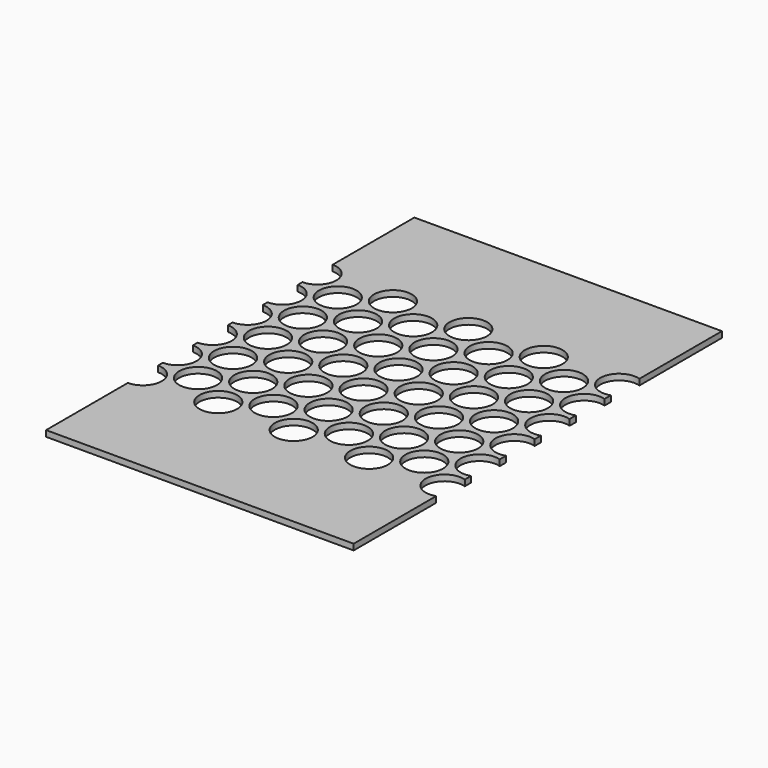
from build123d import *

# Parameters (mm, degrees)
SKETCH061_W     = 445
SKETCH061_H     = 232
PAD023_DEPTH    = 3
SKETCH062_R     = 9.5
POCKET038_DEPTH = 5
FILLET008_R     = 2
SKETCH063_R     = 7
POCKET039_DEPTH = 10.001
POCKET052_DEPTH = 5


with BuildPart() as part:
    # Sketch061 → Pad023 (new body)
    with BuildSketch(Plane.XY):
        Rectangle(SKETCH061_W, SKETCH061_H)
    extrude(amount=PAD023_DEPTH)

    # Sketch062 (on Face6 of Pad023) → Pocket038 (cut)
    with BuildSketch(Plane.XY.offset(3)):
        with Locations((-171, 55)):
            Circle(SKETCH062_R)
        with Locations((-171, 33)):
            Circle(SKETCH062_R)
        with Locations((-171, 11)):
            Circle(SKETCH062_R)
        with Locations((-171, -11)):
            Circle(SKETCH062_R)
        with Locations((-171, -33)):
            Circle(SKETCH062_R)
        with Locations((-171, -55)):
            Circle(SKETCH062_R)
        with Locations((-152, 44)):
            Circle(SKETCH062_R)
        with Locations((-152, 22)):
            Circle(SKETCH062_R)
        with Locations((-152, 0)):
            Circle(SKETCH062_R)
        with Locations((-152, -22)):
            Circle(SKETCH062_R)
        with Locations((-152, -44)):
            Circle(SKETCH062_R)
        with Locations((-133, 55)):
            Circle(SKETCH062_R)
        with Locations((-133, 33)):
            Circle(SKETCH062_R)
        with Locations((-133, 11)):
            Circle(SKETCH062_R)
        with Locations((-133, -11)):
            Circle(SKETCH062_R)
        with Locations((-133, -33)):
            Circle(SKETCH062_R)
        with Locations((-133, -55)):
            Circle(SKETCH062_R)
        with Locations((-114, 44)):
            Circle(SKETCH062_R)
        with Locations((-114, 22)):
            Circle(SKETCH062_R)
        with Locations((-114, 0)):
            Circle(SKETCH062_R)
        with Locations((-114, -22)):
            Circle(SKETCH062_R)
        with Locations((-114, -44)):
            Circle(SKETCH062_R)
        with Locations((-95, 55)):
            Circle(SKETCH062_R)
        with Locations((-95, 33)):
            Circle(SKETCH062_R)
        with Locations((-95, 11)):
            Circle(SKETCH062_R)
        with Locations((-95, -11)):
            Circle(SKETCH062_R)
        with Locations((-95, -33)):
            Circle(SKETCH062_R)
        with Locations((-95, -55)):
            Circle(SKETCH062_R)
        with Locations((-76, -44)):
            Circle(SKETCH062_R)
        with Locations((-76, -22)):
            Circle(SKETCH062_R)
        with Locations((-76, 0)):
            Circle(SKETCH062_R)
        with Locations((-76, 22)):
            Circle(SKETCH062_R)
        with Locations((-76, 44)):
            Circle(SKETCH062_R)
        with Locations((-57, 55)):
            Circle(SKETCH062_R)
        with Locations((-57, 33)):
            Circle(SKETCH062_R)
        with Locations((-57, 11)):
            Circle(SKETCH062_R)
        with Locations((-57, -11)):
            Circle(SKETCH062_R)
        with Locations((-57, -33)):
            Circle(SKETCH062_R)
        with Locations((-38, 44)):
            Circle(SKETCH062_R)
        with Locations((-38, 22)):
            Circle(SKETCH062_R)
        with Locations((-38, 0)):
            Circle(SKETCH062_R)
        with Locations((-38, -22)):
            Circle(SKETCH062_R)
        with Locations((-38, -44)):
            Circle(SKETCH062_R)
        with Locations((-57, -55)):
            Circle(SKETCH062_R)
        with Locations((-19, 55)):
            Circle(SKETCH062_R)
        with Locations((-19, 33)):
            Circle(SKETCH062_R)
        with Locations((-19, 11)):
            Circle(SKETCH062_R)
        with Locations((-19, -11)):
            Circle(SKETCH062_R)
        with Locations((-19, -33)):
            Circle(SKETCH062_R)
        with Locations((-19, -55)):
            Circle(SKETCH062_R)
        with Locations((0, -44)):
            Circle(SKETCH062_R)
        with Locations((0, -22)):
            Circle(SKETCH062_R)
        Circle(SKETCH062_R)
        with Locations((0, 22)):
            Circle(SKETCH062_R)
        with Locations((0, 44)):
            Circle(SKETCH062_R)
        with Locations((19, 55)):
            Circle(SKETCH062_R)
        with Locations((19, 33)):
            Circle(SKETCH062_R)
        with Locations((19, 11)):
            Circle(SKETCH062_R)
        with Locations((19, -11)):
            Circle(SKETCH062_R)
        with Locations((19, -33)):
            Circle(SKETCH062_R)
        with Locations((19, -55)):
            Circle(SKETCH062_R)
        with Locations((38, -44)):
            Circle(SKETCH062_R)
        with Locations((38, -22)):
            Circle(SKETCH062_R)
        with Locations((38, 0)):
            Circle(SKETCH062_R)
        with Locations((38, 22)):
            Circle(SKETCH062_R)
        with Locations((38, 44)):
            Circle(SKETCH062_R)
        with Locations((57, 55)):
            Circle(SKETCH062_R)
        with Locations((57, 33)):
            Circle(SKETCH062_R)
        with Locations((57, 11)):
            Circle(SKETCH062_R)
        with Locations((57, -11)):
            Circle(SKETCH062_R)
        with Locations((76, 0)):
            Circle(SKETCH062_R)
        with Locations((76, 22)):
            Circle(SKETCH062_R)
        with Locations((76, 44)):
            Circle(SKETCH062_R)
        with Locations((57, -33)):
            Circle(SKETCH062_R)
        with Locations((57, -55)):
            Circle(SKETCH062_R)
        with Locations((76, -44)):
            Circle(SKETCH062_R)
        with Locations((76, -22)):
            Circle(SKETCH062_R)
        with Locations((95, 55)):
            Circle(SKETCH062_R)
        with Locations((95, 33)):
            Circle(SKETCH062_R)
        with Locations((95, 11)):
            Circle(SKETCH062_R)
        with Locations((95, -11)):
            Circle(SKETCH062_R)
        with Locations((95, -33)):
            Circle(SKETCH062_R)
        with Locations((95, -55)):
            Circle(SKETCH062_R)
        with Locations((114, 44)):
            Circle(SKETCH062_R)
        with Locations((114, 22)):
            Circle(SKETCH062_R)
        with Locations((114, 0)):
            Circle(SKETCH062_R)
        with Locations((114, -22)):
            Circle(SKETCH062_R)
        with Locations((114, -44)):
            Circle(SKETCH062_R)
        with Locations((133, 55)):
            Circle(SKETCH062_R)
        with Locations((133, 33)):
            Circle(SKETCH062_R)
        with Locations((133, 11)):
            Circle(SKETCH062_R)
        with Locations((133, -11)):
            Circle(SKETCH062_R)
        with Locations((133, -33)):
            Circle(SKETCH062_R)
        with Locations((133, -55)):
            Circle(SKETCH062_R)
        with Locations((152, 44)):
            Circle(SKETCH062_R)
        with Locations((152, 22)):
            Circle(SKETCH062_R)
        with Locations((152, 0)):
            Circle(SKETCH062_R)
        with Locations((152, -22)):
            Circle(SKETCH062_R)
        with Locations((152, -44)):
            Circle(SKETCH062_R)
        with Locations((171, 55)):
            Circle(SKETCH062_R)
        with Locations((171, 33)):
            Circle(SKETCH062_R)
        with Locations((171, 11)):
            Circle(SKETCH062_R)
        with Locations((171, -11)):
            Circle(SKETCH062_R)
        with Locations((171, -33)):
            Circle(SKETCH062_R)
        with Locations((171, -55)):
            Circle(SKETCH062_R)
    extrude(amount=-POCKET038_DEPTH, mode=Mode.SUBTRACT)

    # Fillet008
    fillet008_edges = [part.edges().sort_by_distance(p)[0] for p in [
        (-222.5, -116, 1.5),
        (222.5, -116, 1.5),
        (222.5, 116, 1.5),
        (-222.5, 116, 1.5),
    ]]
    fillet(fillet008_edges, radius=FILLET008_R)

    # Sketch063 → Pocket039 (cut, through all)
    with BuildSketch(Plane.XY.offset(10)):
        with Locations((197.939534, 0)):
            Circle(SKETCH063_R)
    extrude(amount=-POCKET039_DEPTH, mode=Mode.SUBTRACT)

    # Sketch080 (on Face5 of Pocket039) → Pocket052 (cut)
    with BuildSketch(Plane.XY.offset(3)):
        Polygon((-295.981628, 170.85997), (-95, 181.693848), (-95, -229.391144), (60, -229.391144), (60, 193.129593), (437.109833, 193.129593), (437.109833, -331.1091), (-295.981628, -331.1091), align=None)
    extrude(amount=-POCKET052_DEPTH, mode=Mode.SUBTRACT)


solid = part.part
